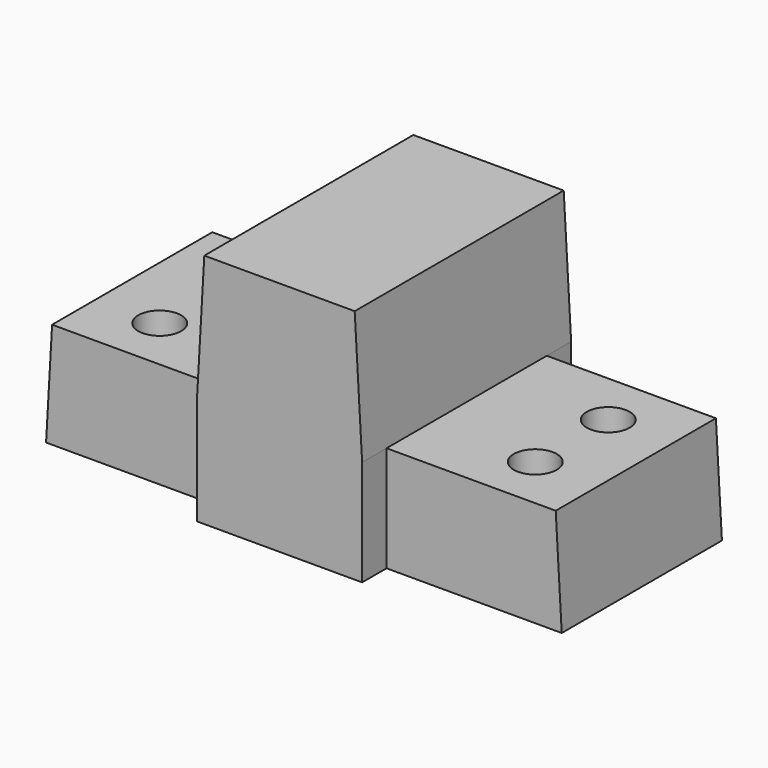
from build123d import *

# Parameters (mm, degrees)
F1_DEPTH = 38.608
F2_W     = 51.777796748
F2_H     = 9.017
F2_R     = 6.35
F3_DEPTH = 31.242


with BuildPart() as f1:
    # F0 (on Front) → F1 (new body, symmetric)
    with BuildSketch(Plane.XZ):
        Polygon((-74.422, 31.242), (-76.2, 0), (76.2, 0), (74.422, 31.242), (24.422203252, 31.242), (22.225, 69.85), (-22.225, 69.85), (-24.422203252, 31.242), align=None)
    extrude(amount=F1_DEPTH, both=True)

    # F2 (on face) → F3 (cut, through all)
    with BuildSketch(Plane(origin=(0, 0, 0), x_dir=(1, 0, 0), z_dir=(0, 0, -1))):
        with Locations((-50.311101626, 34.0995)):
            Rectangle(F2_W, F2_H)
        with Locations((-50.311101626, -34.0995)):
            Rectangle(F2_W, F2_H)
        with Locations((50.311101626, -34.0995)):
            Rectangle(F2_W, F2_H)
        with Locations((50.311101626, 34.0995)):
            Rectangle(F2_W, F2_H)
        with Locations((-55.499, 13.4874)):
            Circle(F2_R)
        with Locations((-55.499, -13.4874)):
            Circle(F2_R)
        with Locations((55.499, -13.4874)):
            Circle(F2_R)
        with Locations((55.499, 13.4874)):
            Circle(F2_R)
    extrude(amount=-F3_DEPTH, mode=Mode.SUBTRACT)


solid = f1.part
